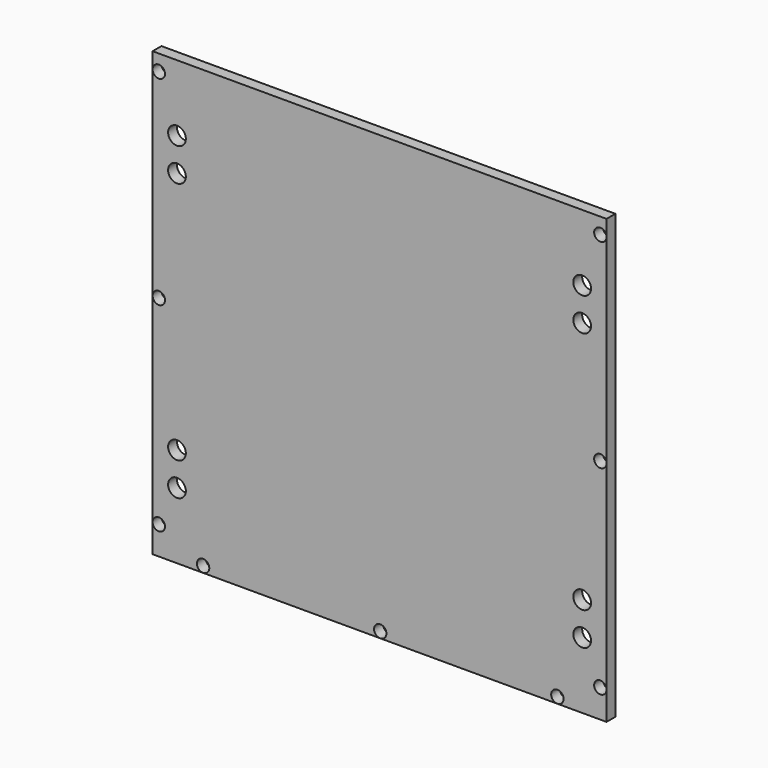
from build123d import *

# Parameters (mm, degrees)
F0_W     = 130.175
F0_H     = 127
F0_R     = 2.54
F1_DEPTH = 1.5875
F3_D     = 3.556


with BuildPart() as f1:
    # F0 (on Front) → F1 (new body, symmetric)
    with BuildSketch(Plane.XZ):
        Rectangle(F0_W, F0_H)
        with Locations((-58.1025, -44.45)):
            Circle(F0_R, mode=Mode.SUBTRACT)
        with Locations((-58.1025, -34.925)):
            Circle(F0_R, mode=Mode.SUBTRACT)
        with Locations((58.1025, -44.45)):
            Circle(F0_R, mode=Mode.SUBTRACT)
        with Locations((58.1025, -34.925)):
            Circle(F0_R, mode=Mode.SUBTRACT)
        with Locations((-58.1025, 34.925)):
            Circle(F0_R, mode=Mode.SUBTRACT)
        with Locations((-58.1025, 44.45)):
            Circle(F0_R, mode=Mode.SUBTRACT)
        with Locations((58.1025, 34.925)):
            Circle(F0_R, mode=Mode.SUBTRACT)
        with Locations((58.1025, 44.45)):
            Circle(F0_R, mode=Mode.SUBTRACT)
    extrude(amount=F1_DEPTH, both=True)

    # F3 (through all)
    with Locations(Plane.XZ.offset(1.5875)):
        with Locations((-63.309373, 58.928127), (-63.309373, 1.778127), (-63.309373, -55.371873), (-50.609373, -61.721873), (0.190627, -61.721873), (50.990627, -61.721873), (63.309373, -55.371873), (63.309373, 1.778127), (63.309373, 58.928127)):
            Hole(F3_D / 2)


solid = f1.part
